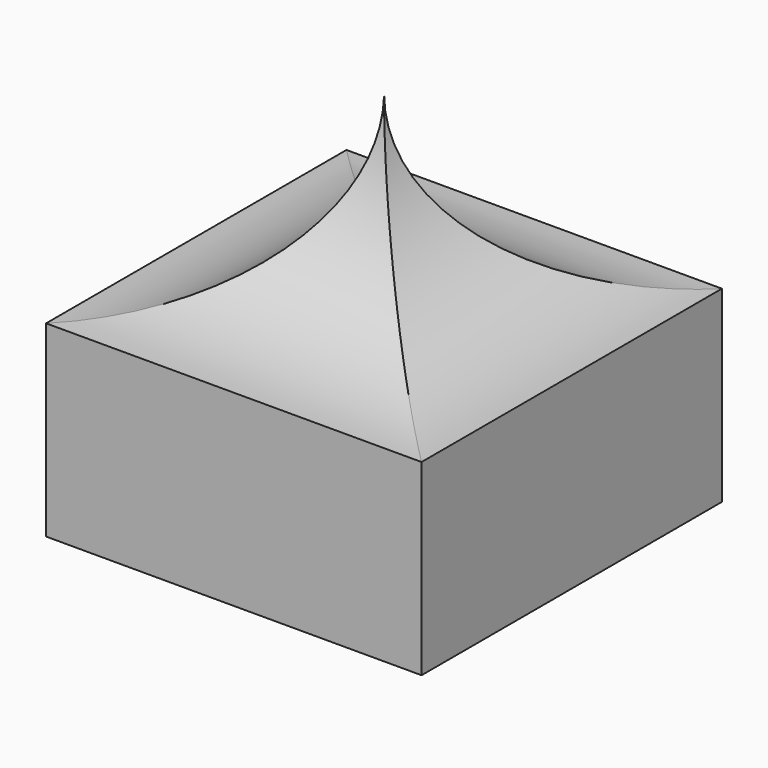
from build123d import *

# Parameters (mm, degrees)
F0_W     = 304.8
F0_H     = 304.8
F1_DEPTH = 152.4
F3_DEPTH = 152.4
F5_DEPTH = 152.4


with BuildPart() as f1:
    # F0 (on Top) → F1 (new body, symmetric)
    with BuildSketch(Plane.XY):
        Rectangle(F0_W, F0_H)
    extrude(amount=F1_DEPTH, both=True)

    # F2 (on Right) → F3 (cut, symmetric)
    with BuildSketch(Plane.YZ):
        with BuildLine():
            Line((-152.4, 152.4), (0, 152.4))
            ThreePointArc((0, 152.4), (-260.163073, 260.163073), (-152.4, 0))
            Line((-152.4, 0), (-152.4, 152.4))
        make_face()
        with BuildLine():
            ThreePointArc((-152.4, 0), (-44.636927, 44.636927), (0, 152.4))
            Line((0, 152.4), (-152.4, 152.4))
            Line((-152.4, 152.4), (-152.4, 0))
        make_face()
        with BuildLine():
            Line((152.4, 152.4), (0, 152.4))
            ThreePointArc((0, 152.4), (44.636927, 44.636927), (152.4, 0))
            Line((152.4, 0), (152.4, 152.4))
        make_face()
    extrude(amount=F3_DEPTH, both=True, mode=Mode.SUBTRACT)

    # F4 (on Front) → F5 (cut, symmetric)
    with BuildSketch(Plane.XZ):
        with BuildLine():
            Line((152.4, 152.4), (0, 152.4))
            ThreePointArc((0, 152.4), (44.636927, 44.636927), (152.4, 0))
            Line((152.4, 0), (152.4, 152.4))
        make_face()
        with BuildLine():
            ThreePointArc((-152.4, 0), (-44.636927, 44.636927), (0, 152.4))
            Line((0, 152.4), (-152.4, 152.4))
            Line((-152.4, 152.4), (-152.4, 0))
        make_face()
    extrude(amount=F5_DEPTH, both=True, mode=Mode.SUBTRACT)


solid = f1.part
